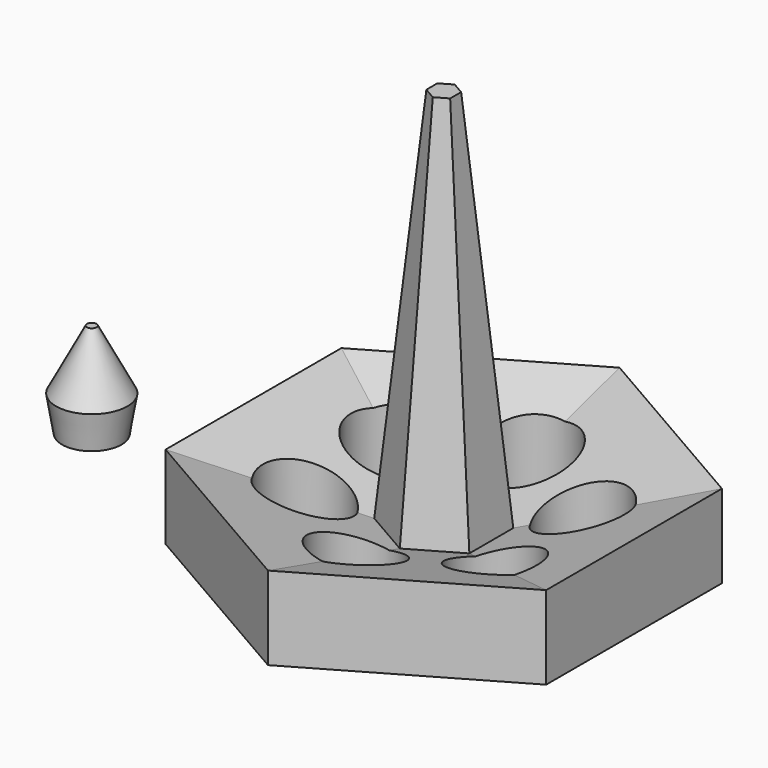
from build123d import *

# Parameters (mm, degrees)
F1_DEPTH   = 7
F5_R       = 3
F6_R       = 2.5
F8_R       = 3.5
F9_DEPTH   = 7
F14_R      = 2.5
F16_R      = 3
F19_FACE_R = 3
F18_R      = 0.4


with BuildPart() as f1:
    # F0 (on Top) → F1 (new body)
    with BuildSketch(Plane.XY):
        Polygon((16, -9.237604307), (16, 9.237604307), (0, 18.4752086141), (-16, 9.237604307), (-16, -9.237604307), (0, -18.4752086141), align=None)
    extrude(amount=F1_DEPTH)

    # F1_face (on face) → F4 section 0
    with BuildSketch(Plane.XY.offset(7)):
        Polygon((0, -18.4752086141), (16, -9.237604307), (16, 9.237604307), (0, 18.4752086141), (-16, 9.237604307), (-16, -9.237604307), align=None)
    # F3 (on offset) → F4 section 1
    with BuildSketch(Plane.XY.offset(3)):
        Polygon((4, -2.3094010768), (4, 2.3094010768), (0, 4.6188021535), (-4, 2.3094010768), (-4, -2.3094010768), (0, -4.6188021535), align=None)
    loft(mode=Mode.SUBTRACT)

    # F5 (on face) → F7 section 0
    with BuildSketch(Plane(origin=(0, 0, 0), x_dir=(1, 0, 0), z_dir=(0, 0, -1))):
        Circle(F5_R)
    # F6 (on offset) → F7 section 1
    with BuildSketch(Plane.XY.offset(3)):
        Circle(F6_R)
    loft(mode=Mode.SUBTRACT)

    # F8 (on face) → F9 (cut)
    with BuildSketch(Plane(origin=(0, 0, 0), x_dir=(1, 0, 0), z_dir=(0, 0, -1))):
        with Locations((-8, 4.6188021535)):
            Circle(F8_R)
        with Locations((0, 9.237604307)):
            Circle(F8_R)
        with Locations((8, 4.6188021535)):
            Circle(F8_R)
        with Locations((8, -4.6188021535)):
            Circle(F8_R)
        with Locations((0, -9.237604307)):
            Circle(F8_R)
        with Locations((-8, -4.6188021535)):
            Circle(F8_R)
    extrude(amount=-F9_DEPTH, mode=Mode.SUBTRACT)

    # F12 (on face) → F13 section 0
    with BuildSketch(Plane.XY.offset(3)):
        Polygon((4, -2.3094010768), (4, 2.3094010768), (0, 4.6188021535), (-4, 2.3094010768), (-4, -2.3094010768), (0, -4.6188021535), align=None)
    # F11 (on offset) → F13 section 1
    with BuildSketch(Plane.XY.offset(35)):
        Polygon((1, -0.5773502692), (1, 0.5773502692), (0, 1.1547005384), (-1, 0.5773502692), (-1, -0.5773502692), (0, -1.1547005384), align=None)
    loft()


with BuildPart() as f19:
    # F14 (on Top) → F19 section 0
    with BuildSketch(Plane.XY):
        with Locations((-29.5982741499, 0)):
            Circle(F14_R)
    # F16 (on offset) → F19 section 1
    with BuildSketch(Plane.XY.offset(3)):
        with Locations((-29.5982741499, 0)):
            Circle(F16_R)
    loft()

    # F19_face (on face) → F20 section 0
    with BuildSketch(Plane(origin=(-29.5982741499, 0, 3), x_dir=(1, 0, 0), z_dir=(0, 0, 1))):
        Circle(F19_FACE_R)
    # F18 (on offset) → F20 section 1
    with BuildSketch(Plane.XY.offset(8)):
        with Locations((-29.5982741499, 0)):
            Circle(F18_R)
    loft()


solid = Compound([f1.part, f19.part])
